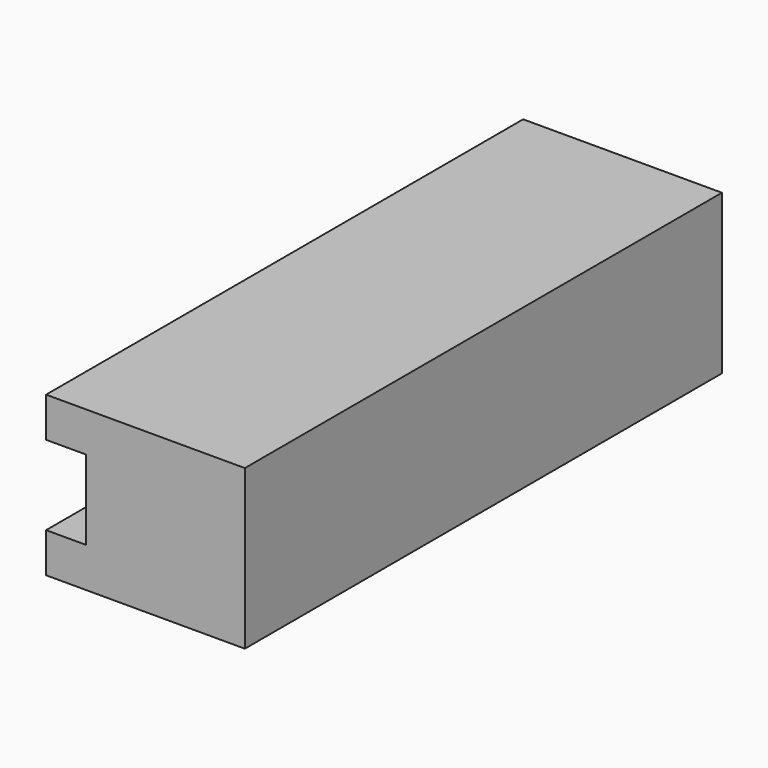
from build123d import *

# Parameters (mm, degrees)
F0_W     = 1270
F0_H     = 1016
F1_DEPTH = 3810
F2_W     = 3048
F2_H     = 508
F3_DEPTH = 254


with BuildPart() as f1:
    # F0 (on Front) → F1 (new body)
    with BuildSketch(Plane.XZ):
        with Locations((-1.650825, 131.530831)):
            Rectangle(F0_W, F0_H)
    extrude(amount=F1_DEPTH)


with BuildPart() as f3:
    # F2 (on face) → F3 (new body)
    with BuildSketch(Plane(origin=(-636.650825, 0, 0), x_dir=(0, -1, 0), z_dir=(-1, 0, 0))):
        with Locations((2286, 131.530831)):
            Rectangle(F2_W, F2_H)
    extrude(amount=-F3_DEPTH)


with BuildPart() as f1_1:
    add(f1.part)

    # F4: cut F3
    add(f3.part, mode=Mode.SUBTRACT)


solid = f1_1.part
